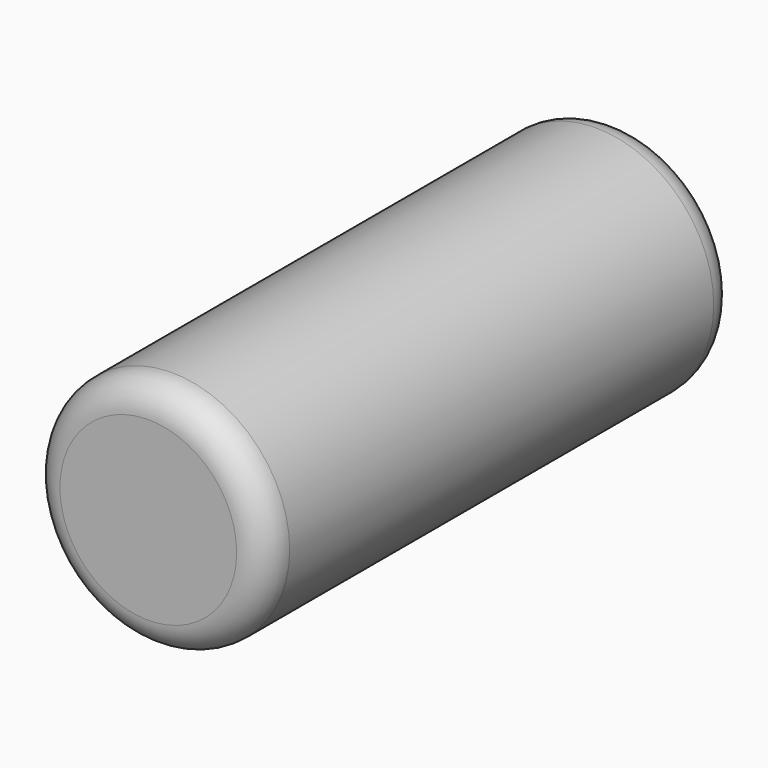
from build123d import *

# Parameters (mm, degrees)
SKETCH_W = 4
SKETCH_H = 20
FILLET_R = 1


with BuildPart() as part:
    # Sketch → Revolution (revolve)
    with BuildSketch(Plane.XY):
        with Locations((2, 0)):
            Rectangle(SKETCH_W, SKETCH_H)
    revolve(axis=Axis((0, 0, 0), (0, 1, 0)))

    # Fillet
    fillet_edges = [part.edges().sort_by_distance(p)[0] for p in [
        (-4, 10, 0),
        (-4, -10, 0),
    ]]
    fillet(fillet_edges, radius=FILLET_R)


solid = part.part
